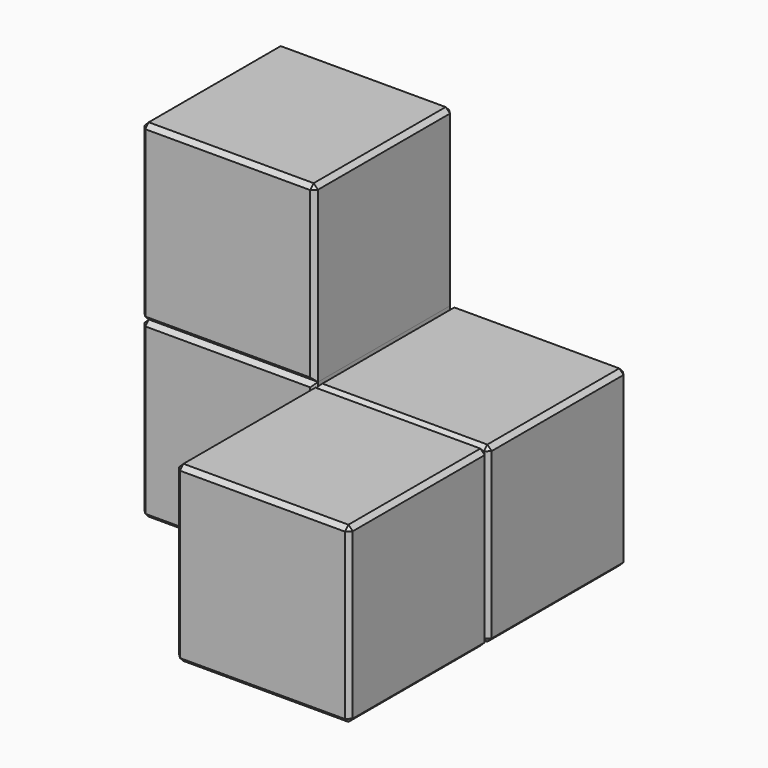
from build123d import *

# Parameters (mm, degrees)
F0_W      = 25.4
F0_H      = 25.4
F1_DEPTH  = 25.4
F2_DEPTH  = 25.4
F3_DEPTH  = 25.4
F4_DEPTH  = 25.4
F5_SIZE   = 0.635
F5_2_SIZE = 0.635
F5_3_SIZE = 0.635
F5_4_SIZE = 0.635


with BuildPart() as f1:
    # F0 (on Top) → F1 (new body)
    with BuildSketch(Plane.XY):
        with Locations((-25.4, 0)):
            Rectangle(F0_W, F0_H)
    extrude(amount=F1_DEPTH)


with BuildPart() as f2:
    # F0 (on Top) → F2 (new body)
    with BuildSketch(Plane.XY):
        Rectangle(F0_W, F0_H)
    extrude(amount=F2_DEPTH)

    # F5#4
    f5_4_edges = [f2.edges().sort_by_distance(p)[0] for p in [
        (0, 12.7, 25.4),
        (-12.7, 0, 25.4),
        (0, -12.7, 25.4),
        (12.7, 0, 25.4),
        (12.7, -12.7, 12.7),
        (12.7, 12.7, 12.7),
        (12.7, 0, 0),
        (0, 12.7, 0),
        (-12.7, 0, 0),
        (0, -12.7, 0),
    ]]
    chamfer(f5_4_edges, length=F5_4_SIZE)


with BuildPart() as f3:
    # F0 (on Top) → F3 (new body)
    with BuildSketch(Plane.XY):
        with Locations((0, -25.4)):
            Rectangle(F0_W, F0_H)
    extrude(amount=F3_DEPTH)

    # F5#3
    f5_3_edges = [f3.edges().sort_by_distance(p)[0] for p in [
        (-12.7, -12.7, 12.7),
        (0, -12.7, 25.4),
        (-12.7, -25.4, 25.4),
        (0, -38.1, 25.4),
        (12.7, -25.4, 25.4),
        (-12.7, -38.1, 12.7),
        (-12.7, -25.4, 0),
        (12.7, -38.1, 12.7),
        (12.7, -12.7, 12.7),
        (12.7, -25.4, 0),
        (0, -12.7, 0),
        (0, -38.1, 0),
    ]]
    chamfer(f5_3_edges, length=F5_3_SIZE)


with BuildPart() as f4:
    # F4 (new): a face of the model
    f4_faces = [f1.part.faces().sort_by_distance(p)[0] for p in [
        (-25.4, 0, 25.4),
    ]]
    extrude(f4_faces, amount=F4_DEPTH)

    # F5
    f5_edges = [f4.edges().sort_by_distance(p)[0] for p in [
        (-12.7, 0, 50.8),
        (-25.4, 12.7, 50.8),
        (-38.1, 0, 50.8),
        (-25.4, -12.7, 50.8),
        (-38.1, -12.7, 38.1),
        (-12.7, -12.7, 38.1),
        (-25.4, -12.7, 25.4),
        (-38.1, 0, 25.4),
        (-38.1, 12.7, 38.1),
        (-25.4, 12.7, 25.4),
        (-12.7, 12.7, 38.1),
    ]]
    chamfer(f5_edges, length=F5_SIZE)


with BuildPart() as f1_1:
    add(f1.part)

    # F5#2
    f5_2_edges = [f1_1.edges().sort_by_distance(p)[0] for p in [
        (-25.4, -12.7, 25.4),
        (-38.1, -12.7, 12.7),
        (-12.7, -12.7, 12.7),
        (-25.4, -12.7, 0),
        (-38.1, 12.7, 12.7),
        (-38.1, 0, 0),
        (-38.1, 0, 25.4),
        (-12.7, 0, 0),
        (-25.4, 12.7, 0),
        (-12.7, 12.7, 12.7),
        (-25.4, 12.7, 25.4),
    ]]
    chamfer(f5_2_edges, length=F5_2_SIZE)


solid = Compound([f2.part, f3.part, f4.part, f1_1.part])
